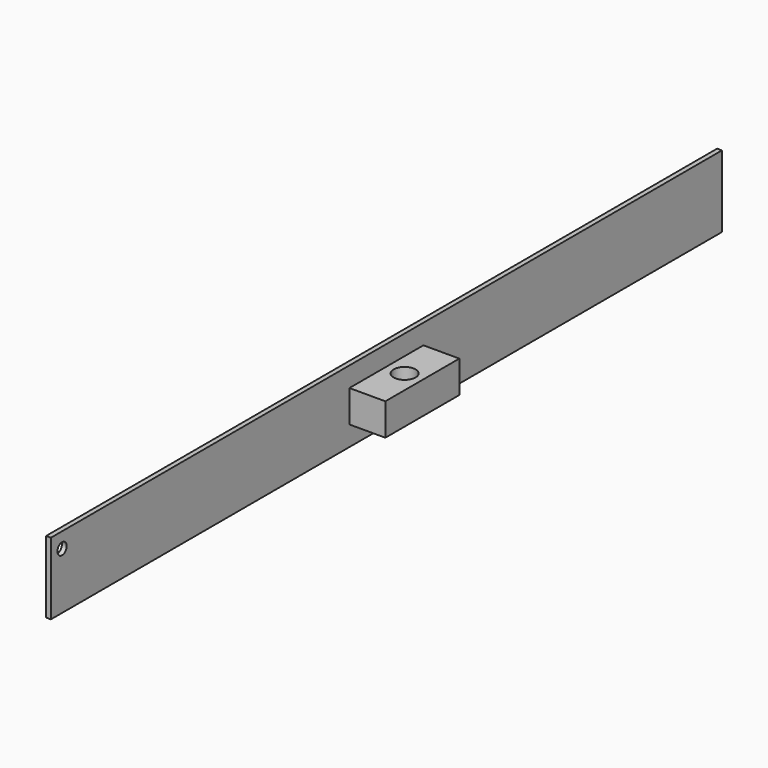
from build123d import *

# Parameters (mm, degrees)
F0_W     = 350
F0_H     = 30
F0_R     = 2.418964
F1_DEPTH = 2
F2_W     = 38.596436
F2_H     = 13.385396
F3_DEPTH = 15
F4_R     = 4.582497
F5_DEPTH = 21.693698


with BuildPart() as f1:
    # F0 (on Right) → F1 (new body)
    with BuildSketch(Plane.YZ):
        Rectangle(F0_W, F0_H)
        with Locations((-169.157952, 8.580949)):
            Circle(F0_R, mode=Mode.SUBTRACT)
    extrude(amount=F1_DEPTH)

    # F2 (on face) → F3 (join)
    with BuildSketch(Plane.YZ.offset(2)):
        Rectangle(F2_W, F2_H)
    extrude(amount=F3_DEPTH)

    # F4 (on face) → F5 (cut, through all)
    with BuildSketch(Plane.XY.offset(6.692698)):
        with Locations((9.614242, 0)):
            Circle(F4_R)
    extrude(amount=-F5_DEPTH, mode=Mode.SUBTRACT)


solid = f1.part
